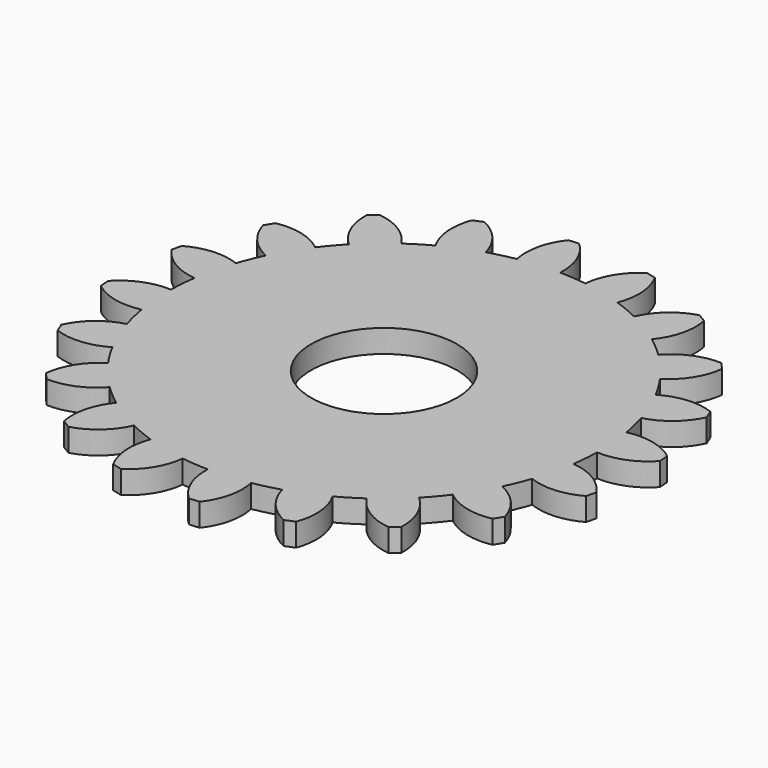
from build123d import *

# Parameters (mm, degrees)
F1_R     = 3.175
F2_DEPTH = 1


with BuildPart() as f2:
    # F1 (on Top) → F2 (new body)
    with BuildSketch(Plane.XY):
        with BuildLine():
            ThreePointArc((-1.6229776334, 9.2680599554), (-0.7382287643, 9.3800858219), (0.1531520845, 9.4078443957))
            ThreePointArc((0.1531520845, 9.4078443957), (-0.0317997207, 10.5374998224), (-0.6817601701, 11.4797736507))
            Line((-0.6817601701, 11.4797736507), (-1.1224656787, 11.4450893749))
            ThreePointArc((-1.1224656787, 11.4450893749), (-1.6170199342, 10.4127402859), (-1.6229776334, 9.2680599554))
        make_face()
        with BuildLine():
            ThreePointArc((9.4078443957, -0.1531520845), (9.4087792756, -0.0765785786), (9.4090909091, 0))
            ThreePointArc((9.4090909091, 0), (9.3737668631, 0.8145468262), (9.2680599554, 1.6229776334))
            ThreePointArc((9.2680599554, 1.6229776334), (9.1491169783, 2.1965086508), (8.9947183137, 2.7615275108))
            ThreePointArc((8.9947183137, 2.7615275108), (8.6928665104, 3.6007032045), (8.3129211438, 4.4075314852))
            ThreePointArc((8.3129211438, 4.4075314852), (8.0225688191, 4.9162364953), (7.7011265332, 5.4058895526))
            ThreePointArc((7.7011265332, 5.4058895526), (7.1547288581, 6.1107157275), (6.5440556911, 6.7606454461))
            ThreePointArc((6.5440556911, 6.7606454461), (6.1107157275, 7.1547288581), (5.6536948308, 7.52108546))
            ThreePointArc((5.6536948308, 7.52108546), (4.9162364953, 8.0225688191), (4.1346124722, 8.4519803265))
            ThreePointArc((4.1346124722, 8.4519803265), (3.6007032045, 8.6928665104), (3.0528400867, 8.90006512))
            ThreePointArc((3.0528400867, 8.90006512), (2.1965086508, 9.1491169783), (1.320444577, 9.3159764842))
            ThreePointArc((1.320444577, 9.3159764842), (0.7382287643, 9.3800858219), (0.1531520845, 9.4078443957))
            ThreePointArc((0.1531520845, 9.4078443957), (-0.7382287643, 9.3800858219), (-1.6229776334, 9.2680599554))
            ThreePointArc((-1.6229776334, 9.2680599554), (-2.1965086508, 9.1491169783), (-2.7615275108, 8.9947183137))
            ThreePointArc((-2.7615275108, 8.9947183137), (-3.6007032045, 8.6928665104), (-4.4075314852, 8.3129211438))
            ThreePointArc((-4.4075314852, 8.3129211438), (-4.9162364953, 8.0225688191), (-5.4058895526, 7.7011265332))
            ThreePointArc((-5.4058895526, 7.7011265332), (-6.1107157275, 7.1547288581), (-6.7606454461, 6.5440556911))
            ThreePointArc((-6.7606454461, 6.5440556911), (-7.1547288581, 6.1107157275), (-7.52108546, 5.6536948308))
            ThreePointArc((-7.52108546, 5.6536948308), (-8.0225688191, 4.9162364953), (-8.4519803265, 4.1346124722))
            ThreePointArc((-8.4519803265, 4.1346124722), (-8.6928665104, 3.6007032045), (-8.90006512, 3.0528400867))
            ThreePointArc((-8.90006512, 3.0528400867), (-9.1491169783, 2.1965086508), (-9.3159764842, 1.320444577))
            ThreePointArc((-9.3159764842, 1.320444577), (-9.3800858219, 0.7382287643), (-9.4078443957, 0.1531520845))
            ThreePointArc((-9.4078443957, 0.1531520845), (-9.3800858219, -0.7382287643), (-9.2680599554, -1.6229776334))
            ThreePointArc((-9.2680599554, -1.6229776334), (-9.1491169783, -2.1965086508), (-8.9947183137, -2.7615275108))
            ThreePointArc((-8.9947183137, -2.7615275108), (-8.6928665104, -3.6007032045), (-8.3129211438, -4.4075314852))
            ThreePointArc((-8.3129211438, -4.4075314852), (-8.0225688191, -4.9162364953), (-7.7011265332, -5.4058895526))
            ThreePointArc((-7.7011265332, -5.4058895526), (-7.1547288581, -6.1107157275), (-6.5440556911, -6.7606454461))
            ThreePointArc((-6.5440556911, -6.7606454461), (-6.1107157275, -7.1547288581), (-5.6536948308, -7.52108546))
            ThreePointArc((-5.6536948308, -7.52108546), (-4.9162364953, -8.0225688191), (-4.1346124722, -8.4519803265))
            ThreePointArc((-4.1346124722, -8.4519803265), (-3.6007032045, -8.6928665104), (-3.0528400867, -8.90006512))
            ThreePointArc((-3.0528400867, -8.90006512), (-2.1965086508, -9.1491169783), (-1.320444577, -9.3159764842))
            ThreePointArc((-1.320444577, -9.3159764842), (-0.7382287643, -9.3800858219), (-0.1531520845, -9.4078443957))
            ThreePointArc((-0.1531520845, -9.4078443957), (0.7382287643, -9.3800858219), (1.6229776334, -9.2680599554))
            ThreePointArc((1.6229776334, -9.2680599554), (2.1965086508, -9.1491169783), (2.7615275108, -8.9947183137))
            ThreePointArc((2.7615275108, -8.9947183137), (3.6007032045, -8.6928665104), (4.4075314852, -8.3129211438))
            ThreePointArc((4.4075314852, -8.3129211438), (4.9162364953, -8.0225688191), (5.4058895526, -7.7011265332))
            ThreePointArc((5.4058895526, -7.7011265332), (6.1107157275, -7.1547288581), (6.7606454461, -6.5440556911))
            ThreePointArc((6.7606454461, -6.5440556911), (7.1547288581, -6.1107157275), (7.52108546, -5.6536948308))
            ThreePointArc((7.52108546, -5.6536948308), (8.0225688191, -4.9162364953), (8.4519803265, -4.1346124722))
            ThreePointArc((8.4519803265, -4.1346124722), (8.6928665104, -3.6007032045), (8.90006512, -3.0528400867))
            ThreePointArc((8.90006512, -3.0528400867), (9.1491169783, -2.1965086508), (9.3159764842, -1.320444577))
            ThreePointArc((9.3159764842, -1.320444577), (9.3800858219, -0.7382287643), (9.4078443957, -0.1531520845))
        make_face()
        Circle(F1_R, mode=Mode.SUBTRACT)
        with BuildLine():
            ThreePointArc((-4.4075314852, 8.3129211438), (-3.6007032045, 8.6928665104), (-2.7615275108, 8.9947183137))
            ThreePointArc((-2.7615275108, 8.9947183137), (-3.286509855, 10.0119312174), (-4.195837602, 10.7072380574))
            Line((-4.195837602, 10.7072380574), (-4.604255417, 10.5380658593))
            ThreePointArc((-4.604255417, 10.5380658593), (-4.7555910517, 9.4034178615), (-4.4075314852, 8.3129211438))
        make_face()
        with BuildLine():
            ThreePointArc((-6.7606454461, 6.5440556911), (-6.1107157275, 7.1547288581), (-5.4058895526, 7.7011265332))
            ThreePointArc((-5.4058895526, 7.7011265332), (-6.2195135061, 8.5063250277), (-7.2991972152, 8.8866034014))
            Line((-7.2991972152, 8.8866034014), (-7.6353485554, 8.5995030343))
            ThreePointArc((-7.6353485554, 8.5995030343), (-7.428651783, 7.4736233793), (-6.7606454461, 6.5440556911))
        make_face()
        with BuildLine():
            ThreePointArc((-8.4519803265, 4.1346124722), (-8.0225688191, 4.9162364953), (-7.52108546, 5.6536948308))
            ThreePointArc((-7.52108546, 5.6536948308), (-8.5437078414, 6.1680604771), (-9.6880605486, 6.1960860878))
            Line((-9.6880605486, 6.1960860878), (-9.9190405786, 5.8191609361))
            ThreePointArc((-9.9190405786, 5.8191609361), (-9.3745443193, 4.812258569), (-8.4519803265, 4.1346124722))
        make_face()
        with BuildLine():
            ThreePointArc((-9.3159764842, 1.320444577), (-9.1491169783, 2.1965086508), (-8.90006512, 3.0528400867))
            ThreePointArc((-8.90006512, 3.0528400867), (-10.0315845257, 3.2260231917), (-11.1285890147, 2.8990526973))
            Line((-11.1285890147, 2.8990526973), (-11.2317877999, 2.469198821))
            ThreePointArc((-11.2317877999, 2.469198821), (-10.4027911413, 1.679836361), (-9.3159764842, 1.320444577))
        make_face()
        with BuildLine():
            ThreePointArc((-9.2680599554, -1.6229776334), (-9.3800858219, -0.7382287643), (-9.4078443957, 0.1531520845))
            ThreePointArc((-9.4078443957, 0.1531520845), (-10.5374998224, -0.0317997207), (-11.4797736507, -0.6817601701))
            Line((-11.4797736507, -0.6817601701), (-11.4450893749, -1.1224656787))
            ThreePointArc((-11.4450893749, -1.1224656787), (-10.4127402859, -1.6170199342), (-9.2680599554, -1.6229776334))
        make_face()
        with BuildLine():
            ThreePointArc((-10.5380658593, -4.604255417), (-9.4034178615, -4.7555910517), (-8.3129211438, -4.4075314852))
            ThreePointArc((-8.3129211438, -4.4075314852), (-8.6928665104, -3.6007032045), (-8.9947183137, -2.7615275108))
            ThreePointArc((-8.9947183137, -2.7615275108), (-10.0119312174, -3.286509855), (-10.7072380574, -4.195837602))
            Line((-10.7072380574, -4.195837602), (-10.5380658593, -4.604255417))
        make_face()
        with BuildLine():
            ThreePointArc((-8.5995030343, -7.6353485554), (-7.4736233793, -7.428651783), (-6.5440556911, -6.7606454461))
            ThreePointArc((-6.5440556911, -6.7606454461), (-7.1547288581, -6.1107157275), (-7.7011265332, -5.4058895526))
            ThreePointArc((-7.7011265332, -5.4058895526), (-8.5063250277, -6.2195135061), (-8.8866034014, -7.2991972152))
            Line((-8.8866034014, -7.2991972152), (-8.5995030343, -7.6353485554))
        make_face()
        with BuildLine():
            ThreePointArc((-5.8191609361, -9.9190405786), (-4.812258569, -9.3745443193), (-4.1346124722, -8.4519803265))
            ThreePointArc((-4.1346124722, -8.4519803265), (-4.9162364953, -8.0225688191), (-5.6536948308, -7.52108546))
            ThreePointArc((-5.6536948308, -7.52108546), (-6.1680604771, -8.5437078414), (-6.1960860878, -9.6880605486))
            Line((-6.1960860878, -9.6880605486), (-5.8191609361, -9.9190405786))
        make_face()
        with BuildLine():
            ThreePointArc((-2.469198821, -11.2317877999), (-1.679836361, -10.4027911413), (-1.320444577, -9.3159764842))
            ThreePointArc((-1.320444577, -9.3159764842), (-2.1965086508, -9.1491169783), (-3.0528400867, -8.90006512))
            ThreePointArc((-3.0528400867, -8.90006512), (-3.2260231917, -10.0315845257), (-2.8990526973, -11.1285890147))
            Line((-2.8990526973, -11.1285890147), (-2.469198821, -11.2317877999))
        make_face()
        with BuildLine():
            ThreePointArc((1.1224656787, -11.4450893749), (1.6170199342, -10.4127402859), (1.6229776334, -9.2680599554))
            ThreePointArc((1.6229776334, -9.2680599554), (0.7382287643, -9.3800858219), (-0.1531520845, -9.4078443957))
            ThreePointArc((-0.1531520845, -9.4078443957), (0.0317997207, -10.5374998224), (0.6817601701, -11.4797736507))
            Line((0.6817601701, -11.4797736507), (1.1224656787, -11.4450893749))
        make_face()
        with BuildLine():
            ThreePointArc((4.604255417, -10.5380658593), (4.7555910517, -9.4034178615), (4.4075314852, -8.3129211438))
            ThreePointArc((4.4075314852, -8.3129211438), (3.6007032045, -8.6928665104), (2.7615275108, -8.9947183137))
            ThreePointArc((2.7615275108, -8.9947183137), (3.286509855, -10.0119312174), (4.195837602, -10.7072380574))
            Line((4.195837602, -10.7072380574), (4.604255417, -10.5380658593))
        make_face()
        with BuildLine():
            ThreePointArc((7.6353485554, -8.5995030343), (7.428651783, -7.4736233793), (6.7606454461, -6.5440556911))
            ThreePointArc((6.7606454461, -6.5440556911), (6.1107157275, -7.1547288581), (5.4058895526, -7.7011265332))
            ThreePointArc((5.4058895526, -7.7011265332), (6.2195135061, -8.5063250277), (7.2991972152, -8.8866034014))
            Line((7.2991972152, -8.8866034014), (7.6353485554, -8.5995030343))
        make_face()
        with BuildLine():
            ThreePointArc((9.9190405786, -5.8191609361), (9.3745443193, -4.812258569), (8.4519803265, -4.1346124722))
            ThreePointArc((8.4519803265, -4.1346124722), (8.0225688191, -4.9162364953), (7.52108546, -5.6536948308))
            ThreePointArc((7.52108546, -5.6536948308), (8.5437078414, -6.1680604771), (9.6880605486, -6.1960860878))
            Line((9.6880605486, -6.1960860878), (9.9190405786, -5.8191609361))
        make_face()
        with BuildLine():
            ThreePointArc((11.2317877999, -2.469198821), (10.4027911413, -1.679836361), (9.3159764842, -1.320444577))
            ThreePointArc((9.3159764842, -1.320444577), (9.1491169783, -2.1965086508), (8.90006512, -3.0528400867))
            ThreePointArc((8.90006512, -3.0528400867), (10.0315845257, -3.2260231917), (11.1285890147, -2.8990526973))
            Line((11.1285890147, -2.8990526973), (11.2317877999, -2.469198821))
        make_face()
        with BuildLine():
            ThreePointArc((9.2680599554, 1.6229776334), (9.3737668631, 0.8145468262), (9.4090909091, 0))
            ThreePointArc((9.4090909091, 0), (9.4087792756, -0.0765785786), (9.4078443957, -0.1531520845))
            ThreePointArc((9.4078443957, -0.1531520845), (10.5374998224, 0.0317997207), (11.4797736507, 0.6817601701))
            Line((11.4797736507, 0.6817601701), (11.4450893749, 1.1224656787))
            ThreePointArc((11.4450893749, 1.1224656787), (10.4127402859, 1.6170199342), (9.2680599554, 1.6229776334))
        make_face()
        with BuildLine():
            ThreePointArc((8.3129211438, 4.4075314852), (8.6928665104, 3.6007032045), (8.9947183137, 2.7615275108))
            ThreePointArc((8.9947183137, 2.7615275108), (10.0119312174, 3.286509855), (10.7072380574, 4.195837602))
            Line((10.7072380574, 4.195837602), (10.5380658593, 4.604255417))
            ThreePointArc((10.5380658593, 4.604255417), (9.4034178615, 4.7555910517), (8.3129211438, 4.4075314852))
        make_face()
        with BuildLine():
            ThreePointArc((6.5440556911, 6.7606454461), (7.1547288581, 6.1107157275), (7.7011265332, 5.4058895526))
            ThreePointArc((7.7011265332, 5.4058895526), (8.5063250277, 6.2195135061), (8.8866034014, 7.2991972152))
            Line((8.8866034014, 7.2991972152), (8.5995030343, 7.6353485554))
            ThreePointArc((8.5995030343, 7.6353485554), (7.4736233793, 7.428651783), (6.5440556911, 6.7606454461))
        make_face()
        with BuildLine():
            ThreePointArc((4.1346124722, 8.4519803265), (4.9162364953, 8.0225688191), (5.6536948308, 7.52108546))
            ThreePointArc((5.6536948308, 7.52108546), (6.1680604771, 8.5437078414), (6.1960860878, 9.6880605486))
            Line((6.1960860878, 9.6880605486), (5.8191609361, 9.9190405786))
            ThreePointArc((5.8191609361, 9.9190405786), (4.812258569, 9.3745443193), (4.1346124722, 8.4519803265))
        make_face()
        with BuildLine():
            ThreePointArc((1.320444577, 9.3159764842), (2.1965086508, 9.1491169783), (3.0528400867, 8.90006512))
            ThreePointArc((3.0528400867, 8.90006512), (3.2260231917, 10.0315845257), (2.8990526973, 11.1285890147))
            Line((2.8990526973, 11.1285890147), (2.469198821, 11.2317877999))
            ThreePointArc((2.469198821, 11.2317877999), (1.679836361, 10.4027911413), (1.320444577, 9.3159764842))
        make_face()
    extrude(amount=F2_DEPTH)


solid = f2.part
